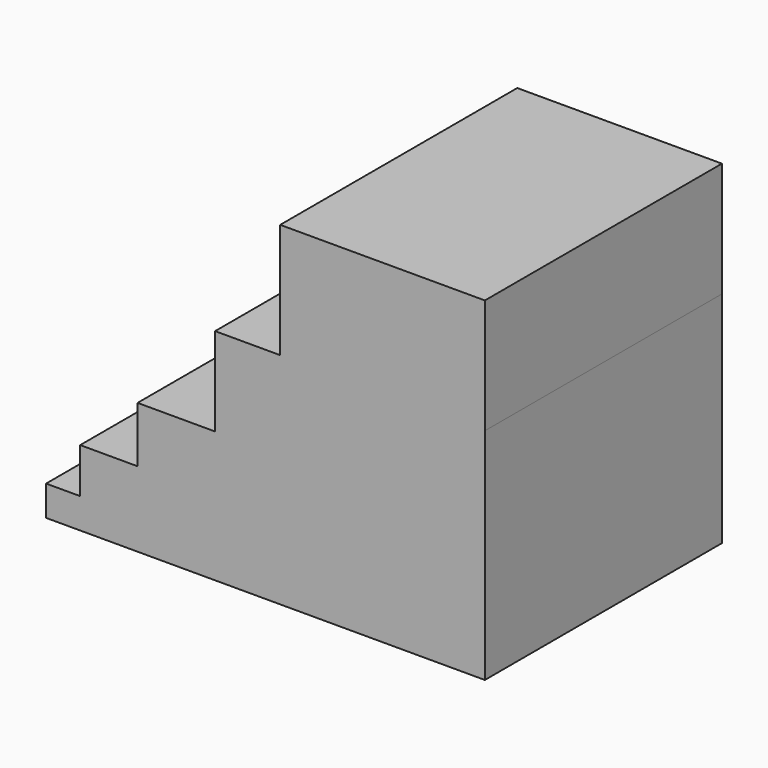
from build123d import *

# Parameters (mm, degrees)
F0_W     = 17.543719
F0_H     = 9.835118
F1_DEPTH = 25.4


with BuildPart() as f1:
    # F0 (on Front) → F1 (new body)
    with BuildSketch(Plane.XZ):
        Polygon((-26.578831, 2.592185), (-26.578831, 0), (11.033846, 0), (11.033846, 2.592185), (-23.654874, 2.592185), align=None)
        Polygon((-23.654874, 6.446487), (-23.654874, 2.592185), (11.033846, 2.592185), (11.033846, 6.446487), (-18.737316, 6.446487), align=None)
        Polygon((-18.737316, 6.446487), (11.033846, 6.446487), (11.033846, 11.231139), (-12.091967, 11.231139), (-18.737316, 11.231139), align=None)
        Polygon((-12.091967, 11.231139), (11.033846, 11.231139), (11.033846, 18.806836), (-6.509873, 18.806836), (-12.091967, 18.806836), align=None)
        with Locations((2.261986, 23.724395)):
            Rectangle(F0_W, F0_H)
    extrude(amount=F1_DEPTH)


solid = f1.part
